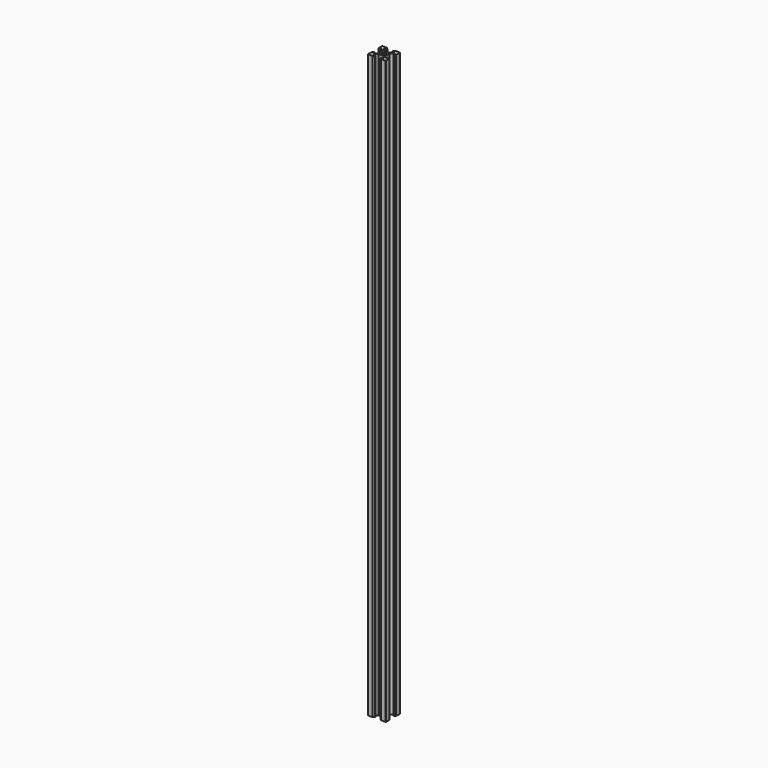
from build123d import *

# Parameters (mm, degrees)
SKETCH_R  = 2.1
PAD_DEPTH = 650


with BuildPart() as part:
    # Sketch → Pad (new body)
    with BuildSketch(Plane.XY):
        with BuildLine():
            Line((-10, 4.58), (-10, 9.5))
            ThreePointArc((-9.5, 10), (-9.853553, 9.853553), (-10, 9.5))
            Line((-9.5, 10), (-4.58, 10))
            Line((-4.58, 10), (-3.125, 8.545))
            Line((-3.125, 8.545), (-3.125, 8.2))
            Line((-5.5, 8.2), (-3.125, 8.2))
            Line((-5.5, 8.2), (-5.5, 6.56066))
            Line((-5.5, 6.56066), (-2.83934, 3.9))
            Line((-0.125, 3.9), (-2.83934, 3.9))
            ThreePointArc((-0.125, 3.9), (0, 3.775), (0.125, 3.9))
            Line((0.125, 3.9), (2.83934, 3.9))
            Line((2.83934, 3.9), (5.5, 6.56066))
            Line((5.5, 6.56066), (5.5, 8.2))
            Line((5.5, 8.2), (3.125, 8.2))
            Line((3.125, 8.2), (3.125, 8.545))
            Line((3.125, 8.545), (4.58, 10))
            Line((4.58, 10), (9.5, 10))
            ThreePointArc((10, 9.5), (9.853553, 9.853553), (9.5, 10))
            Line((10, 9.5), (10, 4.58))
            Line((10, 4.58), (8.545, 3.125))
            Line((8.545, 3.125), (8.2, 3.125))
            Line((8.2, 3.125), (8.2, 5.5))
            Line((8.2, 5.5), (6.56066, 5.5))
            Line((6.56066, 5.5), (3.9, 2.83934))
            Line((3.9, 2.83934), (3.9, 0.125))
            ThreePointArc((3.9, 0.125), (3.775, 0), (3.9, -0.125))
            Line((3.9, -0.125), (3.9, -2.83934))
            Line((3.9, -2.83934), (6.56066, -5.5))
            Line((6.56066, -5.5), (8.2, -5.5))
            Line((8.2, -5.5), (8.2, -3.125))
            Line((8.2, -3.125), (8.545, -3.125))
            Line((8.545, -3.125), (10, -4.58))
            Line((10, -4.58), (10, -9.5))
            ThreePointArc((9.5, -10), (9.853553, -9.853553), (10, -9.5))
            Line((9.5, -10), (4.58, -10))
            Line((4.58, -10), (3.125, -8.545))
            Line((3.125, -8.545), (3.125, -8.2))
            Line((3.125, -8.2), (5.5, -8.2))
            Line((5.5, -8.2), (5.5, -6.56066))
            Line((2.83934, -3.9), (5.5, -6.56066))
            Line((0.125, -3.9), (2.83934, -3.9))
            ThreePointArc((0.125, -3.9), (0, -3.775), (-0.125, -3.9))
            Line((-0.125, -3.9), (-2.83934, -3.9))
            Line((-2.83934, -3.9), (-5.5, -6.56066))
            Line((-5.5, -6.56066), (-5.5, -8.2))
            Line((-5.5, -8.2), (-3.125, -8.2))
            Line((-3.125, -8.545), (-3.125, -8.2))
            Line((-4.58, -10), (-3.125, -8.545))
            Line((-9.5, -10), (-4.58, -10))
            ThreePointArc((-10, -9.5), (-9.853553, -9.853553), (-9.5, -10))
            Line((-10, -4.58), (-10, -9.5))
            Line((-8.545, -3.125), (-10, -4.58))
            Line((-8.2, -3.125), (-8.545, -3.125))
            Line((-8.2, -5.5), (-8.2, -3.125))
            Line((-6.56066, -5.5), (-8.2, -5.5))
            Line((-3.9, -2.83934), (-6.56066, -5.5))
            Line((-3.9, -0.125), (-3.9, -2.83934))
            ThreePointArc((-3.9, -0.125), (-3.775, 0), (-3.9, 0.125))
            Line((-3.9, 2.83934), (-3.9, 0.125))
            Line((-6.56066, 5.5), (-3.9, 2.83934))
            Line((-8.2, 5.5), (-6.56066, 5.5))
            Line((-8.2, 5.5), (-8.2, 3.125))
            Line((-8.545, 3.125), (-8.2, 3.125))
            Line((-10, 4.58), (-8.545, 3.125))
        make_face()
        Circle(SKETCH_R, mode=Mode.SUBTRACT)
    extrude(amount=PAD_DEPTH)


solid = part.part
